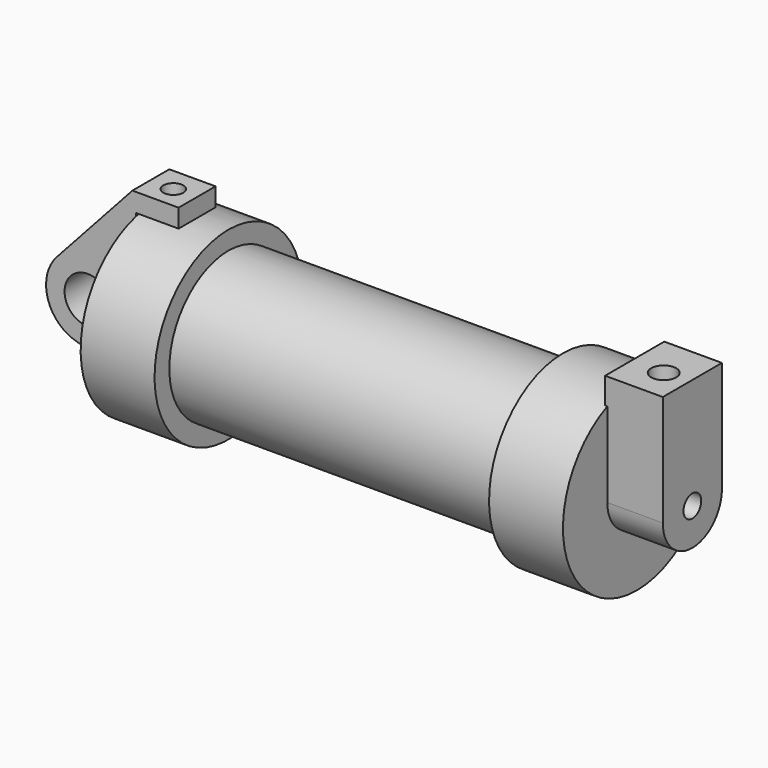
from build123d import *

# Parameters (mm, degrees)
F0_W     = 5.842
F0_H     = 12.7
F0_R     = 3.175
F2_DEPTH = 3.175
F3_R     = 1.524
F4_DEPTH = 7.62
F5_DEPTH = 0.3048
F6_R     = 1.715399248
F7_DEPTH = 17.78
F8_R     = 1.3719725567
F9_DEPTH = 10.414


with BuildPart() as f1:
    # F0 (on Front) → F1 (revolve)
    with BuildSketch(Plane.XZ):
        Polygon((5.842, 12.7), (5.842, 0), (66.294, 0), (66.294, 12.7), (56.134, 12.7), (56.134, 10.16), (10.16, 10.16), (10.16, 12.7), align=None)
        with Locations((2.921, 6.35)):
            Rectangle(F0_W, F0_H)
    revolve(axis=Axis((33.147, 0, 0), (-1, 0, 0)))

    # F3 (on face) → F4 (join)
    with BuildSketch(Plane.YZ.offset(66.294)):
        with BuildLine():
            ThreePointArc((-5.08, 11.6397422652), (0, 12.7), (5.08, 11.6397422652))
            Line((5.08, 11.6397422652), (5.08, 15.24))
            Line((5.08, 15.24), (-5.08, 15.24))
            Line((-5.08, 15.24), (-5.08, 11.6397422652))
        make_face()
        with BuildLine():
            ThreePointArc((-5.08, 0), (0, 5.08), (5.08, 0))
            Line((5.08, 0), (5.08, 11.6397422652))
            ThreePointArc((5.08, 11.6397422652), (0, 12.7), (-5.08, 11.6397422652))
            Line((-5.08, 11.6397422652), (-5.08, 0))
        make_face()
        with BuildLine():
            ThreePointArc((-5.08, 0), (0, -5.08), (5.08, 0))
            ThreePointArc((5.08, 0), (0, 5.08), (-5.08, 0))
        make_face()
        Circle(F3_R, mode=Mode.SUBTRACT)
    extrude(amount=F4_DEPTH)

    # F3 (on face) → F5 (join)
    with BuildSketch(Plane.YZ.offset(66.294)):
        with BuildLine():
            ThreePointArc((-5.08, 0), (0, -5.08), (5.08, 0))
            ThreePointArc((5.08, 0), (0, 5.08), (-5.08, 0))
        make_face()
        Circle(F3_R, mode=Mode.SUBTRACT)
        with BuildLine():
            ThreePointArc((-5.08, 0), (0, 5.08), (5.08, 0))
            Line((5.08, 0), (5.08, 15.24))
            Line((5.08, 15.24), (-5.08, 15.24))
            Line((-5.08, 15.24), (-5.08, 0))
        make_face()
    extrude(amount=-F5_DEPTH)

    # F6 (on face) → F7 (cut)
    with BuildSketch(Plane.XY.offset(15.24)):
        with Locations((70.4726949334, -0.6196037284)):
            Circle(F6_R)
    extrude(amount=-F7_DEPTH, mode=Mode.SUBTRACT)


with BuildPart() as f2:
    # F0 (on Front) → F2 (new body, symmetric)
    with BuildSketch(Plane.XZ):
        with BuildLine():
            Line((-0.9398, 0), (0, 0))
            Line((0, 0), (0, 12.7))
            Line((0, 12.7), (5.842, 12.7))
            Line((5.842, 12.7), (5.842, 15.24))
            Line((5.842, 15.24), (-0.508, 15.24))
            Line((-0.508, 15.24), (-10.8806298187, 3.8475430269))
            ThreePointArc((-10.8806298187, 3.8475430269), (-4.5919612295, 5.3297205562), (-0.9398, 0))
        make_face()
        with BuildLine():
            ThreePointArc((-8.1826630726, -5.5069827884), (-3.1957909266, -4.5493385486), (-0.9398, 0))
            ThreePointArc((-0.9398, 0), (-4.5919612295, 5.3297205562), (-10.8806298187, 3.8475430269))
            ThreePointArc((-10.8806298187, 3.8475430269), (-12.1459778134, -1.5837270034), (-8.1826630726, -5.5069827884))
        make_face()
        with Locations((-6.6548, 0)):
            Circle(F0_R, mode=Mode.SUBTRACT)
        with BuildLine():
            Line((5.842, 0), (0, 0))
            Line((0, 0), (-0.9398, 0))
            ThreePointArc((-0.9398, 0), (-3.1957909266, -4.5493385486), (-8.1826630726, -5.5069827884))
            Line((-8.1826630726, -5.5069827884), (5.842, -9.398))
            Line((5.842, -9.398), (5.842, 0))
        make_face()
    extrude(amount=F2_DEPTH, both=True)


with BuildPart() as f9_tool:
    # F8 (on face) → F9 (new body)
    with BuildSketch(Plane.XY.offset(15.24)):
        with Locations((2.6965192519, -0.1451129647)):
            Circle(F8_R)
    extrude(amount=-F9_DEPTH)


with BuildPart() as f1_1:
    add(f1.part)

    # F9: cut by f9_tool
    add(f9_tool.part, mode=Mode.SUBTRACT)


with BuildPart() as f2_1:
    add(f2.part)

    # F9: cut by f9_tool
    add(f9_tool.part, mode=Mode.SUBTRACT)


solid = Compound([f1_1.part, f2_1.part])
